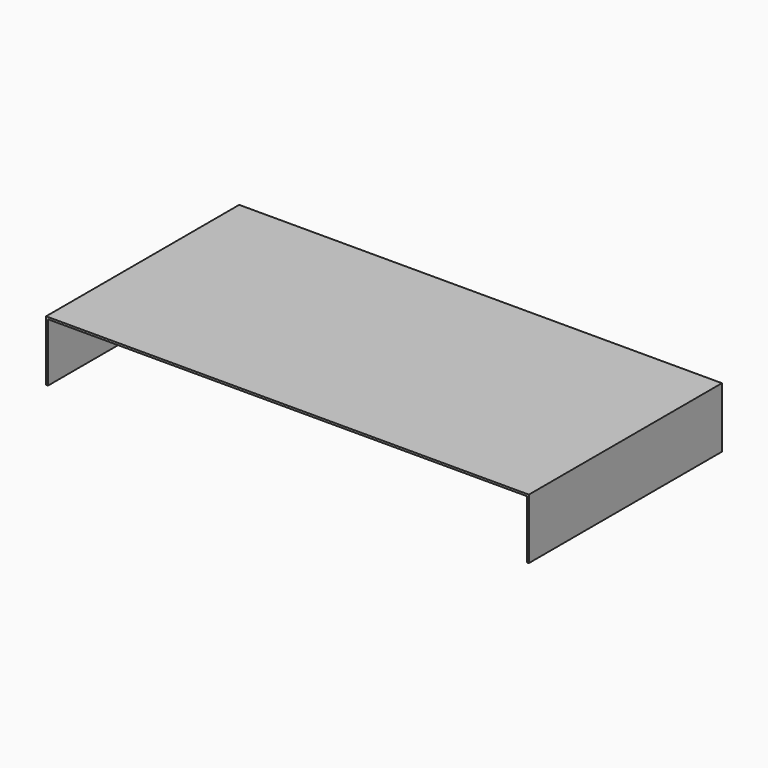
from build123d import *

# Parameters (mm, degrees)
F0_W     = 1524
F0_H     = 762
F1_DEPTH = 190.5
F2_T     = -6.35
F3_W     = 1511.3
F3_H     = 184.15
F4_DEPTH = 25.4


with BuildPart() as f1:
    # F0 (on Top) → F1 (new body)
    with BuildSketch(Plane.XY):
        with Locations((41.196167, 129.838063)):
            Rectangle(F0_W, F0_H)
    extrude(amount=F1_DEPTH)

    # F2
    f2_openings = [f1.faces().sort_by_distance(p)[0] for p in [
        (41.196167, 129.838063, 0),
    ]]
    offset(amount=F2_T, openings=f2_openings)

    # F3 (on face) → F4 (cut)
    with BuildSketch(Plane(origin=(0, -244.811937, 0), x_dir=(-1, 0, 0), z_dir=(0, 1, 0))):
        with Locations((-41.196167, 92.075)):
            Rectangle(F3_W, F3_H)
    extrude(amount=-F4_DEPTH, mode=Mode.SUBTRACT)


solid = f1.part
